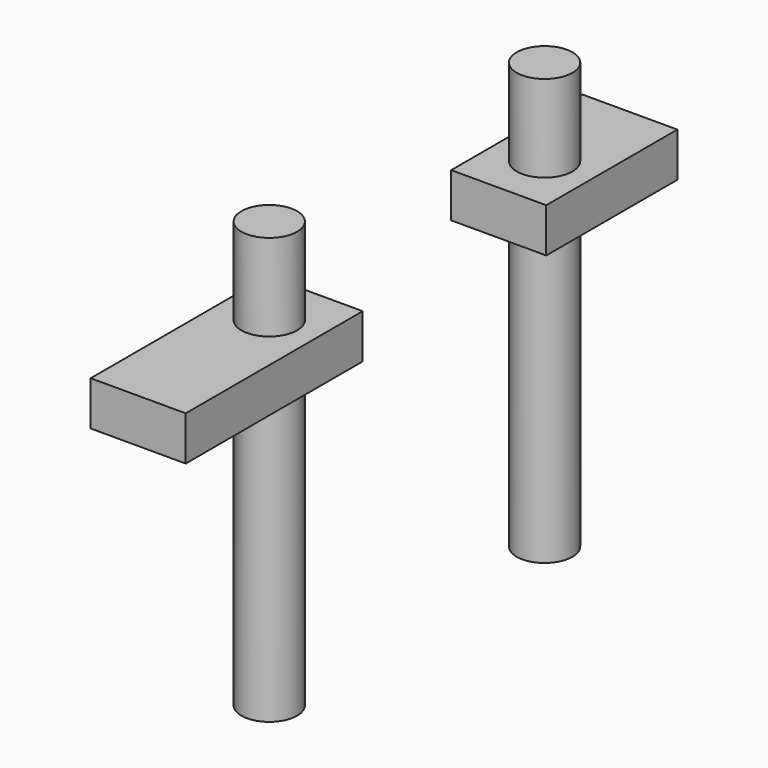
from build123d import *

# Parameters (mm, degrees)
CYLINDER142_R                = 1.7
CYLINDER142_DEPTH            = 26
BOX001027045036_W            = 10
BOX001027045036_H            = 5.8
BOX001027045036_DEPTH        = 2.7
BOX001027045037_W            = 13.5
BOX001027045037_H            = 5.8
BOX001027045037_DEPTH        = 2.7
CYLINDER141_R                = 1.7
CYLINDER141_DEPTH            = 26
FUSION112052_PLACEMENT_ANGLE = 90


with BuildPart() as cylinder199:
    # Cylinder142 → Cylinder142 (new body)
    with BuildSketch(Plane(origin=(13, 0, -18), x_dir=(1, 0, 0), z_dir=(0, 0, 1))):
        Circle(CYLINDER142_R)
    extrude(amount=CYLINDER142_DEPTH)


with BuildPart() as fusion112051:
    # Box001027045036 → Box001027045036 (new body)
    with BuildSketch(Plane(origin=(9.5, -2.9, 0), x_dir=(1, 0, 0), z_dir=(0, 0, 1))):
        with Locations((5, 2.9)):
            Rectangle(BOX001027045036_W, BOX001027045036_H)
    extrude(amount=BOX001027045036_DEPTH)

    # Fusion112051: union Cylinder199
    add(cylinder199.part)


with BuildPart() as cube090:
    # Box001027045037 → Box001027045037 (new body)
    with BuildSketch(Plane(origin=(-18, -2.9, 0), x_dir=(1, 0, 0), z_dir=(0, 0, 1))):
        with Locations((6.75, 2.9)):
            Rectangle(BOX001027045037_W, BOX001027045037_H)
    extrude(amount=BOX001027045037_DEPTH)


with BuildPart() as m3_nut_holes002:
    # Cylinder141 → Cylinder141 (new body)
    with BuildSketch(Plane(origin=(-8, 0, -18), x_dir=(1, 0, 0), z_dir=(0, 0, 1))):
        Circle(CYLINDER141_R)
    extrude(amount=CYLINDER141_DEPTH)

    # Fusion112050: union Cube090
    add(cube090.part)

    # Fusion112052: union Fusion112051
    add(fusion112051.part)


with BuildPart() as m3_nut_holes002_1:
    # Fusion112052 placement: moved
    add(m3_nut_holes002.part.rotate(Axis((0, 0, 0), (0, 0, 1)), FUSION112052_PLACEMENT_ANGLE))


solid = m3_nut_holes002_1.part
